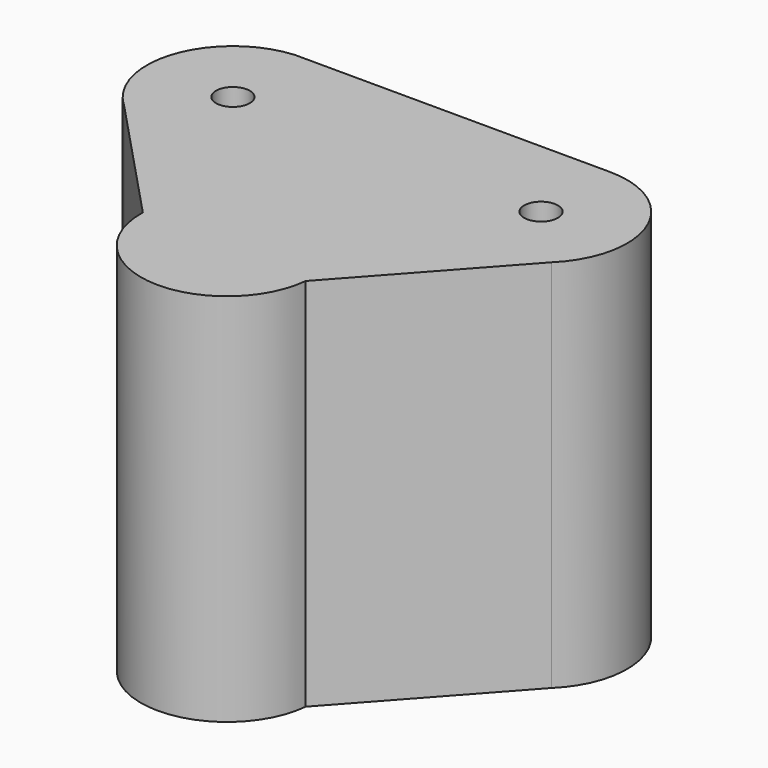
from build123d import *

# Parameters (mm, degrees)
F0_R     = 2.667
F1_DEPTH = 59.182
F2_DEPTH = 59.182


with BuildPart() as f1:
    # F0 (on Top) → F1 (new body)
    with BuildSketch(Plane.XY):
        with BuildLine():
            Line((13.522018, -32.589569), (34.073065, -9.754229))
            ThreePointArc((34.073065, -9.754229), (37.212326, 5.087939), (24.647387, 13.588953))
            Line((24.647387, 13.588953), (-25.272645, 13.719766))
            ThreePointArc((-25.272645, 13.719766), (-36.688855, 5.508585), (-34.72087, -8.415509))
            Line((-34.72087, -8.415509), (-33.395324, -9.822957))
            Line((-33.395324, -9.822957), (-13.583595, -30.858783))
            ThreePointArc((-13.583595, -30.858783), (-0.86594, -44.803382), (13.522018, -32.589569))
        make_face()
        with Locations((-24.190773, 0.173901)):
            Circle(F0_R, mode=Mode.SUBTRACT)
        with Locations((24.611778, 0)):
            Circle(F0_R, mode=Mode.SUBTRACT)
    extrude(amount=F1_DEPTH)

    # F0 (on Top) → F2 (join)
    with BuildSketch(Plane.XY):
        with BuildLine():
            Line((13.522018, -32.589569), (34.073065, -9.754229))
            ThreePointArc((34.073065, -9.754229), (37.212326, 5.087939), (24.647387, 13.588953))
            Line((24.647387, 13.588953), (-25.272645, 13.719766))
            ThreePointArc((-25.272645, 13.719766), (-36.688855, 5.508585), (-34.72087, -8.415509))
            Line((-34.72087, -8.415509), (-33.395324, -9.822957))
            Line((-33.395324, -9.822957), (-13.583595, -30.858783))
            ThreePointArc((-13.583595, -30.858783), (-0.86594, -44.803382), (13.522018, -32.589569))
        make_face()
        with Locations((-24.190773, 0.173901)):
            Circle(F0_R, mode=Mode.SUBTRACT)
        with Locations((24.611778, 0)):
            Circle(F0_R, mode=Mode.SUBTRACT)
        with BuildLine():
            ThreePointArc((-34.72087, -8.415509), (-34.08316, -9.142837), (-33.395324, -9.822957))
            Line((-33.395324, -9.822957), (-34.72087, -8.415509))
        make_face()
    extrude(amount=F2_DEPTH)


solid = f1.part
